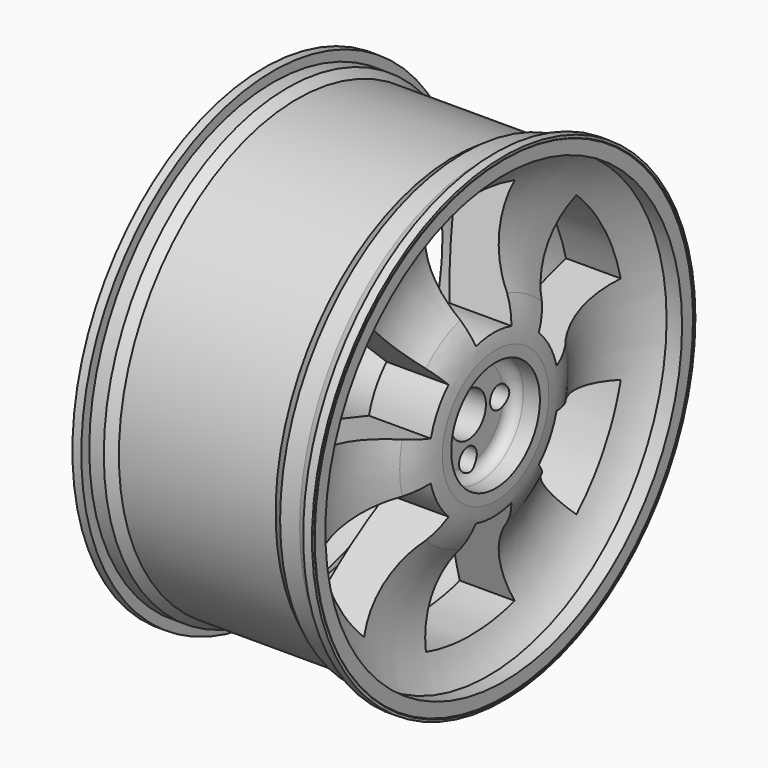
from build123d import *

# Parameters (mm, degrees)
SKETCH002_R           = 50
POCKET_DEPTH          = 25
FILLET_R              = 10
SKETCH003_R           = 20
POCKET001_DEPTH       = 183.669172
SKETCH004_R           = 10
POCKET002_DEPTH       = 1404.559561
POCKET002_DEPTH_BACK  = 1405.395964
POLARPATTERN_COUNT    = 4
POCKET003_DEPTH       = 1404.559561
POCKET003_DEPTH_BACK  = 1405.395964
POLARPATTERN001_COUNT = 6


with BuildPart() as part:
    # Sketch → Revolution (revolve)
    with BuildSketch(Plane.XY):
        Polygon((-28.515713, 196), (28.515713, 196), (65.398537, 196), (73.283608, 201), (108, 201), (108, 216), (100, 216), (100, 207), (72.030521, 207), (63.161045, 201.026306), (-29.824583, 201.026306), (-78.099873, 201.026306), (-86.908587, 207), (-100, 207), (-100, 216), (-108, 216), (-108, 201), (-99.298126, 201), (-89.018097, 201), (-80.451416, 196), align=None)
    revolve(axis=Axis((0, 0, 0), (1, 0, 0)))

    # Sketch001 → Revolution001 (revolve)
    with BuildSketch(Plane.XZ):
        with BuildLine():
            Line((0, 0), (100.668172, 0))
            Line((100.668172, 0), (100.668172, 60))
            ThreePointArc((100.668172, 60), (97.621667, 78.037864), (89.94216, 94.641203))
            ThreePointArc((108.836403, 213.905151), (73.659034, 158.34946), (89.94216, 94.641203))
            Line((108.836403, 213.905151), (62.693928, 197.354885))
            Line((62.693928, 197.354885), (28.166448, 197.354885))
            ThreePointArc((28.166448, 197.354885), (33.061851, 122.81674), (49.723858, 50))
            Line((49.723858, 50), (0, 50))
            Line((0, 50), (0, 0))
        make_face()
    revolve(axis=Axis((0, 0, 0), (1, 0, 0)))

    # Sketch002 (on Face29 of Revolution001) → Pocket (cut)
    with BuildSketch(Plane.YZ.offset(100.668172)):
        Circle(SKETCH002_R)
    extrude(amount=-POCKET_DEPTH, mode=Mode.SUBTRACT)

    # Fillet
    fillet_edges = [part.edges().sort_by_distance(p)[0] for p in [
        (75.668172, -50, 0),
    ]]
    fillet(fillet_edges, radius=FILLET_R)

    # Sketch003 (on Face7 of Fillet) → Pocket001 (cut, through all)
    with BuildSketch(Plane.YZ.offset(75.668172)):
        with Locations((0.343185, 0.301254)):
            Circle(SKETCH003_R)
    extrude(amount=-POCKET001_DEPTH, mode=Mode.SUBTRACT)

    # Sketch004 → Pocket002 (cut, two sides)
    with BuildSketch(Plane.YZ) as pocket002_sk:
        with Locations((-0.107707, 35)):
            Circle(SKETCH004_R)
    pocket002 = extrude(amount=-POCKET002_DEPTH, mode=Mode.SUBTRACT) + extrude(pocket002_sk.sketch, amount=POCKET002_DEPTH_BACK, mode=Mode.SUBTRACT)

    # PolarPattern: Pocket002 ×4 about axis
    polarpattern_axis = Axis((0, 0, 0), (1, 0, 0))
    for i in range(1, POLARPATTERN_COUNT):
        add(pocket002.rotate(polarpattern_axis, i * 360 / POLARPATTERN_COUNT), mode=Mode.SUBTRACT)

    # Sketch005 → Pocket003 (cut, two sides)
    with BuildSketch(Plane.YZ) as pocket003_sk:
        with BuildLine():
            ThreePointArc((20, 70.217454), (0, 73.010011), (-20, 70.217454))
            Line((-20, 70.217454), (-50, 166.967454))
            ThreePointArc((50, 166.967454), (0, 174.260735), (-50, 166.967454))
            Line((50, 166.967454), (20, 70.217454))
        make_face()
    pocket003 = extrude(amount=-POCKET003_DEPTH, mode=Mode.SUBTRACT) + extrude(pocket003_sk.sketch, amount=POCKET003_DEPTH_BACK, mode=Mode.SUBTRACT)

    # PolarPattern001: Pocket003 ×6 about axis
    polarpattern001_axis = Axis((0, 0, 0), (1, 0, 0))
    for i in range(1, POLARPATTERN001_COUNT):
        add(pocket003.rotate(polarpattern001_axis, i * 360 / POLARPATTERN001_COUNT), mode=Mode.SUBTRACT)


solid = part.part
